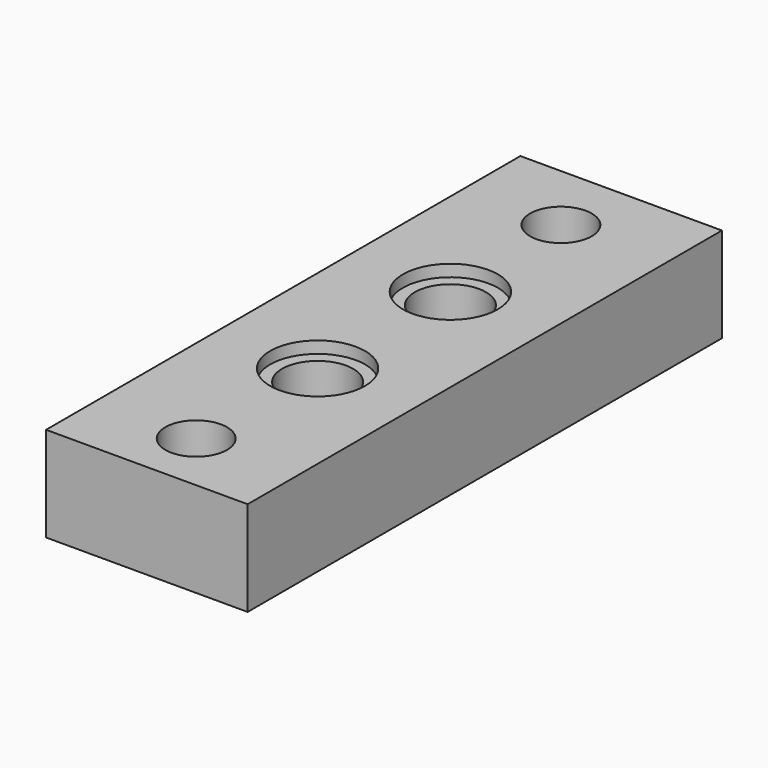
from build123d import *

# Parameters (mm, degrees)
F0_W     = 17
F0_H     = 50
F0_R     = 2.6
F0_R_2   = 3
F1_DEPTH = 8
F2_R     = 4
F2_R_2   = 3
F3_DEPTH = 1
F4_R     = 1.25
F5_DEPTH = 8


with BuildPart() as f1:
    # F0 (on Top) → F1 (new body)
    with BuildSketch(Plane.XY):
        with Locations((8.5, 25)):
            Rectangle(F0_W, F0_H)
        with Locations((8.5, 5.2)):
            Circle(F0_R, mode=Mode.SUBTRACT)
        with Locations((8.5, 18)):
            Circle(F0_R_2, mode=Mode.SUBTRACT)
        with Locations((8.219655, 44)):
            Circle(F0_R, mode=Mode.SUBTRACT)
        with Locations((8.5, 32)):
            Circle(F0_R_2, mode=Mode.SUBTRACT)
    extrude(amount=F1_DEPTH)

    # F2 (on face) → F3 (cut)
    with BuildSketch(Plane.XY.offset(8)):
        with Locations((8.5, 32)):
            Circle(F2_R)
        with Locations((8.5, 32)):
            Circle(F2_R_2, mode=Mode.SUBTRACT)
        with Locations((8.5, 18)):
            Circle(F2_R)
        with Locations((8.5, 18)):
            Circle(F2_R_2, mode=Mode.SUBTRACT)
    extrude(amount=-F3_DEPTH, mode=Mode.SUBTRACT)

    # F4 (on face) → F5 (cut)
    with BuildSketch(Plane(origin=(0, 50, 0), x_dir=(-1, 0, 0), z_dir=(0, 1, 0))):
        with Locations((-14, 4)):
            Circle(F4_R)
        with Locations((-3, 4)):
            Circle(F4_R)
    extrude(amount=-F5_DEPTH, mode=Mode.SUBTRACT)


solid = f1.part
